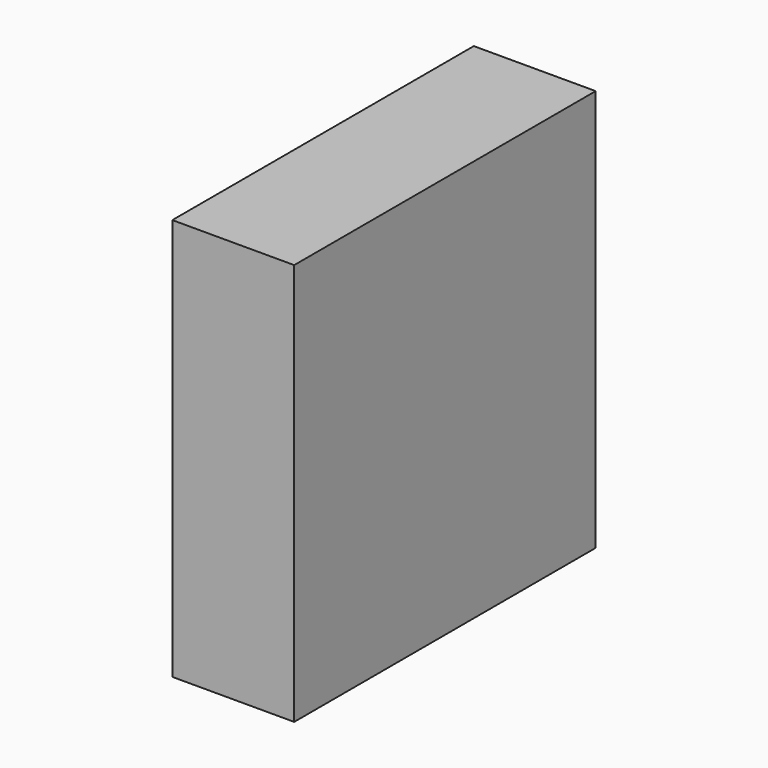
from build123d import *

# Parameters (mm, degrees)
F0_W     = 90.17267
F0_H     = 92.389152
F1_DEPTH = 25.4
F2_W     = 90.17267
F2_H     = 92.389152
F2_W_2   = 78.542798
F2_H_2   = 83.819776
F3_DEPTH = 63.5


with BuildPart() as f1:
    # F0 (on Right) → F1 (new body)
    with BuildSketch(Plane.YZ):
        Rectangle(F0_W, F0_H)
    extrude(amount=F1_DEPTH)

    # F2 (on face) → F3 (cut)
    with BuildSketch(Plane(origin=(0, 0, 0), x_dir=(0, -1, 0), z_dir=(-1, 0, 0))):
        Rectangle(F2_W, F2_H)
        Rectangle(F2_W_2, F2_H_2, mode=Mode.SUBTRACT)
    extrude(amount=-F3_DEPTH, mode=Mode.SUBTRACT)


solid = f1.part
